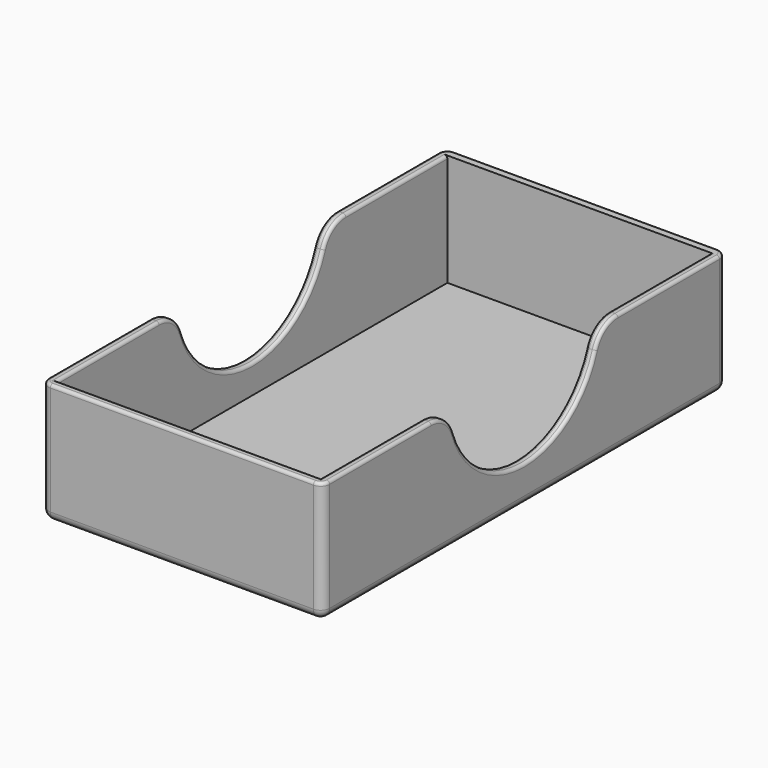
from build123d import *

# Parameters (mm, degrees)
SKETCH014_W          = 70.4
SKETCH014_H          = 130.4
PAD004_DEPTH         = 30
THICKNESS_T          = 2.4
POCKET005_DEPTH      = 37.601
POCKET005_DEPTH_BACK = 37.601
FILLET006_R          = 0.8


with BuildPart() as part:
    # Sketch014 → Pad004 (new body)
    with BuildSketch(Plane.XY):
        Rectangle(SKETCH014_W, SKETCH014_H)
    extrude(amount=PAD004_DEPTH)

    # Thickness
    thickness_openings = [part.faces().sort_by_distance(p)[0] for p in [
        (0, 0, 30),
    ]]
    offset(amount=THICKNESS_T, openings=thickness_openings)

    # Sketch015 → Pocket005 (cut, two sides)
    with BuildSketch(Plane.YZ) as pocket005_sk:
        with BuildLine():
            ThreePointArc((-23.675182, 24.569697), (0, 7.6), (23.675182, 24.569697))
            ThreePointArc((31.25124, 30), (26.590638, 28.502214), (23.675182, 24.569697))
            Line((-31.25124, 30), (31.25124, 30))
            ThreePointArc((-23.675182, 24.569697), (-26.590638, 28.502214), (-31.25124, 30))
        make_face()
    extrude(amount=-POCKET005_DEPTH, mode=Mode.SUBTRACT)
    extrude(pocket005_sk.sketch, amount=POCKET005_DEPTH_BACK, mode=Mode.SUBTRACT)

    # Fillet006
    fillet006_edges = [part.edges().sort_by_distance(p)[0] for p in [
        (0, -65.2, 30),
        (35.2, -48.22562, 30),
        (36.4, -31.25124, 30),
        (37.6, -48.22562, 30),
        (36.897056, -66.897056, 30),
        (0, -67.6, 30),
        (-36.897056, -66.897056, 30),
        (-37.6, -48.22562, 30),
        (-36.4, -31.25124, 30),
        (-35.2, -48.22562, 30),
    ]]
    fillet(fillet006_edges, radius=FILLET006_R)


solid = part.part
